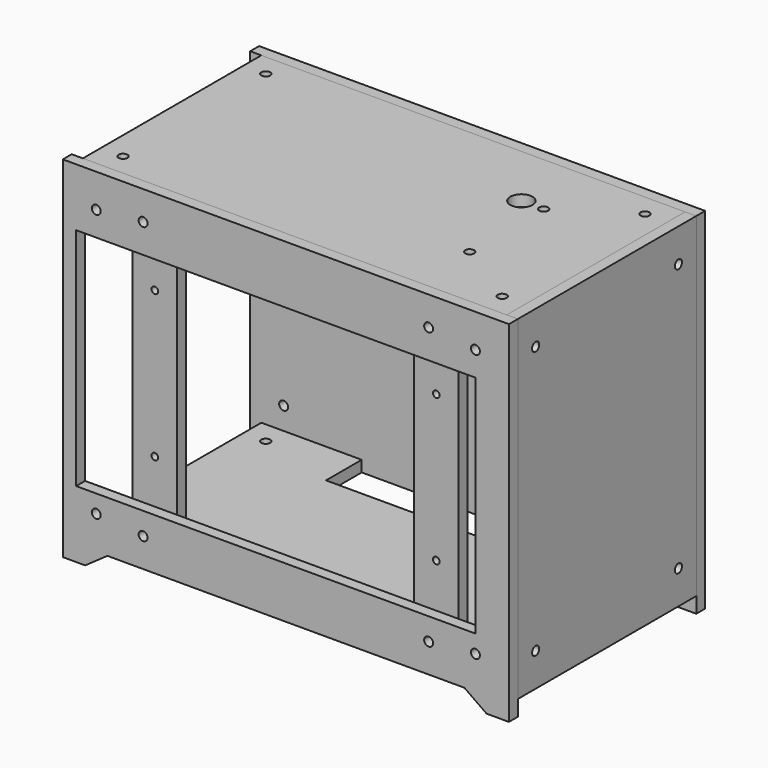
from build123d import *

# Parameters (mm, degrees)
F0_W      = 200
F0_H      = 150
F1_DEPTH  = 5
F3_W      = 179
F3_H      = 101
F3_R      = 2
F4_DEPTH  = 5.001
F5_W      = 20
F5_H      = 140
F5_R      = 2
F5_R_2    = 1.5
F6_DEPTH  = 5
F7_W      = 100
F7_H      = 150
F7_R      = 2
F8_DEPTH  = 5
F9_W      = 190
F9_H      = 100
F9_R      = 2
F9_R_2    = 5
F10_DEPTH = 5
F11_W     = 15
F11_H     = 15
F12_DEPTH = 15
F13_W     = 10
F13_H     = 10
F14_DEPTH = 10
F15_R     = 2
F16_DEPTH = 10.001
F17_R     = 5
F18_R     = 2
F19_DEPTH = 10.001
F20_R     = 2
F21_DEPTH = 10.001
F23_DEPTH = 5
F24_R     = 2
F25_DEPTH = 5
F26_R     = 2
F27_DEPTH = 5
F28_R     = 2
F29_DEPTH = 2
F31_DEPTH = 2
F33_DEPTH = 2


with BuildPart() as f1:
    # F0 (on Front) → F1 (new body)
    with BuildSketch(Plane.XZ):
        Rectangle(F0_W, F0_H)
    extrude(amount=F1_DEPTH)

    # F3 (on face) → F4 (cut, through all)
    with BuildSketch(Plane.XZ.offset(5)):
        with Locations((-4.5, -1.5)):
            Rectangle(F3_W, F3_H)
        with Locations((64, 62)):
            Circle(F3_R)
        with Locations((-64, 62)):
            Circle(F3_R)
        with Locations((-64, -62)):
            Circle(F3_R)
        with Locations((64, -62)):
            Circle(F3_R)
        with Locations((85, 60)):
            Circle(F3_R)
        with Locations((-85, -60)):
            Circle(F3_R)
        with Locations((85, -60)):
            Circle(F3_R)
        with Locations((-85, 60)):
            Circle(F3_R)
    extrude(amount=-F4_DEPTH, mode=Mode.SUBTRACT)

    # F22 (on face) → F23 (join)
    with BuildSketch(Plane.XZ.offset(5)):
        Polygon((-80, -75), (-100, -75), (-100, -82), (-90, -82), align=None)
        Polygon((100, -82), (100, -75), (80, -75), (90, -82), align=None)
    extrude(amount=-F23_DEPTH)


with BuildPart() as f6:
    # F5 (on face) → F6 (new body)
    with BuildSketch(Plane(origin=(0, 0, 0), x_dir=(-1, 0, 0), z_dir=(0, 1, 0))):
        with Locations((-63.46, 0)):
            Rectangle(F5_W, F5_H)
        with Locations((-64, -62)):
            Circle(F5_R, mode=Mode.SUBTRACT)
        with Locations((-63.46, -32.23)):
            Circle(F5_R_2, mode=Mode.SUBTRACT)
        with Locations((-63.46, 33.42)):
            Circle(F5_R_2, mode=Mode.SUBTRACT)
        with Locations((-64, 62)):
            Circle(F5_R, mode=Mode.SUBTRACT)
    extrude(amount=F6_DEPTH)


with BuildPart() as f6b:
    # F5 (on face) → F6, piece 2 (new body)
    with BuildSketch(Plane(origin=(0, 0, 0), x_dir=(-1, 0, 0), z_dir=(0, 1, 0))):
        with Locations((62.74, 0)):
            Rectangle(F5_W, F5_H)
        with Locations((64, -62)):
            Circle(F5_R, mode=Mode.SUBTRACT)
        with Locations((62.74, -32.23)):
            Circle(F5_R_2, mode=Mode.SUBTRACT)
        with Locations((62.74, 33.42)):
            Circle(F5_R_2, mode=Mode.SUBTRACT)
        with Locations((64, 62)):
            Circle(F5_R, mode=Mode.SUBTRACT)
    extrude(amount=F6_DEPTH)


with BuildPart() as f8:
    # F7 (on face) → F8 (new body)
    with BuildSketch(Plane.YZ.offset(100)):
        with Locations((50, 0)):
            Rectangle(F7_W, F7_H)
        with Locations((10, -60)):
            Circle(F7_R, mode=Mode.SUBTRACT)
        with Locations((90, -60)):
            Circle(F7_R, mode=Mode.SUBTRACT)
        with Locations((10, 60)):
            Circle(F7_R, mode=Mode.SUBTRACT)
        with Locations((90, 60)):
            Circle(F7_R, mode=Mode.SUBTRACT)
    extrude(amount=-F8_DEPTH)


with BuildPart() as f10:
    # F9 (on face) → F10 (new body)
    with BuildSketch(Plane.XY.offset(70)):
        with Locations((0, 50)):
            Rectangle(F9_W, F9_H)
        with Locations((-85, 10)):
            Circle(F9_R, mode=Mode.SUBTRACT)
        with Locations((85, 10)):
            Circle(F9_R, mode=Mode.SUBTRACT)
        with Locations((55, 29.25)):
            Circle(F9_R, mode=Mode.SUBTRACT)
        with Locations((-85, 90)):
            Circle(F9_R, mode=Mode.SUBTRACT)
        with Locations((45, 70.75)):
            Circle(F9_R_2, mode=Mode.SUBTRACT)
        with Locations((55, 70.75)):
            Circle(F9_R, mode=Mode.SUBTRACT)
        with Locations((85, 90)):
            Circle(F9_R, mode=Mode.SUBTRACT)
    extrude(amount=F10_DEPTH)


with BuildPart() as f12:
    # F11 (on face) → F12 (new body)
    with BuildSketch(Plane(origin=(0, 0, 0), x_dir=(-1, 0, 0), z_dir=(0, 1, 0))):
        with Locations((-87.5, 62.5)):
            Rectangle(F11_W, F11_H)
    extrude(amount=F12_DEPTH)

    # F13 (on face) → F14 (cut)
    with BuildSketch(Plane(origin=(0, 15, 0), x_dir=(-1, 0, 0), z_dir=(0, 1, 0))):
        with Locations((-85, 60)):
            Rectangle(F13_W, F13_H)
    extrude(amount=-F14_DEPTH, mode=Mode.SUBTRACT)

    # F15 (on face) → F16 (cut, through all)
    with BuildSketch(Plane(origin=(0, 5, 0), x_dir=(-1, 0, 0), z_dir=(0, 1, 0))):
        with Locations((-85, 60)):
            Circle(F15_R)
    extrude(amount=-F16_DEPTH, mode=Mode.SUBTRACT)

    # F17
    f17_edges = [f12.edges().sort_by_distance(p)[0] for p in [
        (80, 15, 67.5),
        (92.5, 15, 55),
        (80, 2.5, 55),
    ]]
    fillet(f17_edges, radius=F17_R)

    # F18 (on face) → F19 (cut, through all)
    with BuildSketch(Plane(origin=(0, 0, 65), x_dir=(1, 0, 0), z_dir=(0, 0, -1))):
        with Locations((85, -10)):
            Circle(F18_R)
    extrude(amount=-F19_DEPTH, mode=Mode.SUBTRACT)

    # F20 (on face) → F21 (cut, through all)
    with BuildSketch(Plane(origin=(90, 0, 0), x_dir=(0, -1, 0), z_dir=(-1, 0, 0))):
        with Locations((-10, 60)):
            Circle(F20_R)
    extrude(amount=-F21_DEPTH, mode=Mode.SUBTRACT)

    # F28 (on face) → F29 (cut)
    with BuildSketch(Plane(origin=(90, 0, 0), x_dir=(0, -1, 0), z_dir=(-1, 0, 0))):
        Polygon((-12.0207259422, 56.5), (-7.9792740578, 56.5), (-5.9585481157, 60), (-7.9792740578, 63.5), (-12.0207259422, 63.5), (-14.0414518843, 60), align=None)
        with Locations((-10, 60)):
            Circle(F28_R, mode=Mode.SUBTRACT)
    extrude(amount=-F29_DEPTH, mode=Mode.SUBTRACT)

    # F30 (on face) → F31 (cut)
    with BuildSketch(Plane(origin=(0, 0, 65), x_dir=(1, 0, 0), z_dir=(0, 0, -1))):
        Polygon((88.5, -12.0207259422), (88.5, -7.9792740578), (85, -5.9585481157), (81.5, -7.9792740578), (81.5, -12.0207259422), (85, -14.0414518843), align=None)
    extrude(amount=-F31_DEPTH, mode=Mode.SUBTRACT)

    # F32 (on face) → F33 (cut)
    with BuildSketch(Plane(origin=(0, 5, 0), x_dir=(-1, 0, 0), z_dir=(0, 1, 0))):
        Polygon((-82.9792740578, 63.5), (-87.0207259422, 63.5), (-89.0414518843, 60), (-87.0207259422, 56.5), (-82.9792740578, 56.5), (-80.9585481157, 60), align=None)
    extrude(amount=-F33_DEPTH, mode=Mode.SUBTRACT)


with BuildPart() as f25:
    # F24 (on face) → F25 (new body)
    with BuildSketch(Plane(origin=(0, 100, 0), x_dir=(-1, 0, 0), z_dir=(0, 1, 0))):
        Polygon((100, 75), (-100, 75), (-100, -75), (-80, -75), (80, -75), (100, -75), align=None)
        with Locations((-85, -62.4478571117)):
            Circle(F24_R, mode=Mode.SUBTRACT)
        with Locations((85, -60)):
            Circle(F24_R, mode=Mode.SUBTRACT)
        with Locations((-85, 60)):
            Circle(F24_R, mode=Mode.SUBTRACT)
        with Locations((85, 60)):
            Circle(F24_R, mode=Mode.SUBTRACT)
        Polygon((-80, -75), (-100, -75), (-100, -82), (-90, -82), align=None)
        Polygon((100, -82), (100, -75), (80, -75), (90, -82), align=None)
    extrude(amount=F25_DEPTH)


with BuildPart() as f27:
    # F26 (on face) → F27 (new body)
    with BuildSketch(Plane(origin=(0, 0, -75), x_dir=(1, 0, 0), z_dir=(0, 0, -1))):
        Polygon((50, -100), (95, -100), (95, 0), (-95, 0), (-95, -100), (-50, -100), (-50, -80), (50, -80), align=None)
        with Locations((-85, -90)):
            Circle(F26_R, mode=Mode.SUBTRACT)
        with Locations((85, -90)):
            Circle(F26_R, mode=Mode.SUBTRACT)
        with Locations((-85, -10)):
            Circle(F26_R, mode=Mode.SUBTRACT)
        with Locations((85, -10)):
            Circle(F26_R, mode=Mode.SUBTRACT)
    extrude(amount=-F27_DEPTH)


solid = Compound([f1.part, f6.part, f6b.part, f8.part, f10.part, f12.part, f25.part, f27.part])
